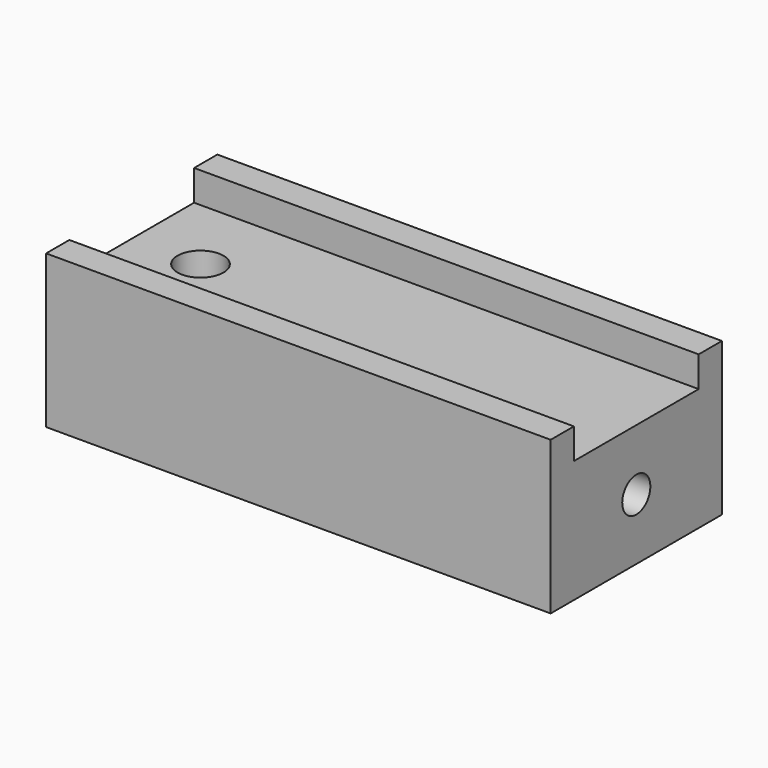
from build123d import *

# Parameters (mm, degrees)
F0_W     = 33
F0_H     = 14
F1_DEPTH = 10
F2_W     = 33
F2_H     = 10.2
F3_DEPTH = 2
F4_D     = 3
F4_DEPTH = 20.5
F4_TIP   = 0.9012909285
F6_D     = 2.3
F6_DEPTH = 20.5
F6_TIP   = 0.6909897119


with BuildPart() as f1:
    # F0 (on Top) → F1 (new body)
    with BuildSketch(Plane.XY):
        Rectangle(F0_W, F0_H)
    extrude(amount=F1_DEPTH)

    # F2 (on face) → F3 (cut)
    with BuildSketch(Plane.XY.offset(10)):
        Rectangle(F2_W, F2_H)
    extrude(amount=-F3_DEPTH, mode=Mode.SUBTRACT)

    # F4
    with Locations(Plane(origin=(0, 0, 0), x_dir=(1, 0, 0), z_dir=(0, 0, -1))):
        with Locations((-12, 0)):
            Hole(F4_D / 2, depth=F4_DEPTH)
            with Locations((0, 0, -(F4_DEPTH + F4_TIP / 2))):  # 118° drill point
                Cone(0, F4_D / 2, F4_TIP, mode=Mode.SUBTRACT)

    # F6
    with Locations(Plane.YZ.offset(16.5)):
        with Locations((0, 4)):
            Hole(F6_D / 2, depth=F6_DEPTH)
            with Locations((0, 0, -(F6_DEPTH + F6_TIP / 2))):  # 118° drill point
                Cone(0, F6_D / 2, F6_TIP, mode=Mode.SUBTRACT)


solid = f1.part
